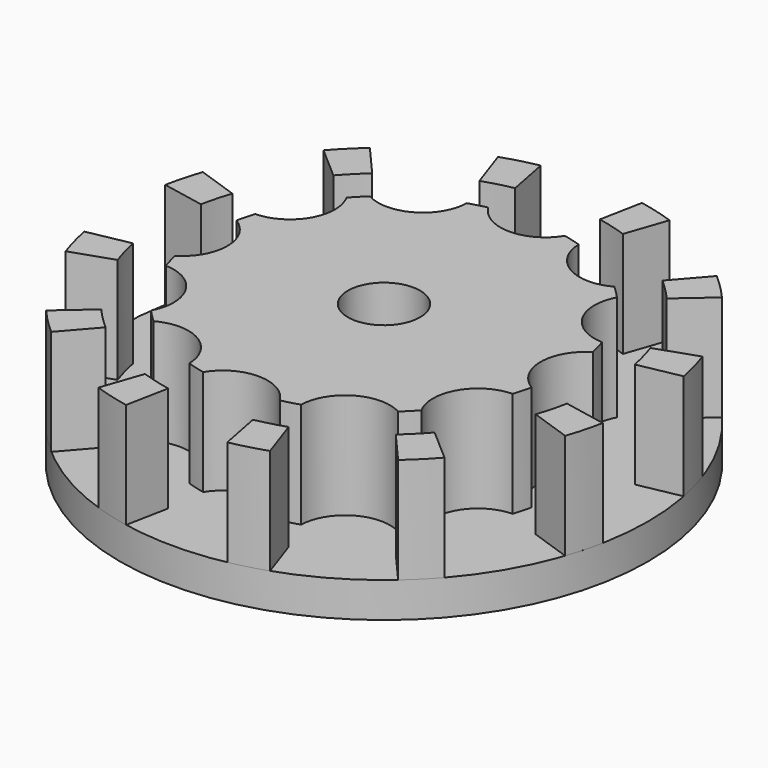
from build123d import *

# Parameters (mm, degrees)
F1_DEPTH = 6
F2_R     = 15
F3_DEPTH = 2
F4_R     = 2.05
F5_DEPTH = 8.001


with BuildPart() as f1:
    # F0 (on Top) → F1 (new body)
    with BuildSketch(Plane.XY):
        with BuildLine():
            ThreePointArc((-7.675711, 6.943051), (-7.707626, 4.45), (-9.850714, 3.175836))
            ThreePointArc((-9.850714, 3.175836), (-9.997332, 2.678777), (-10.118886, 2.175003))
            ThreePointArc((-10.118886, 2.175003), (-8.9, 0), (-10.118886, -2.175003))
            ThreePointArc((-10.118886, -2.175003), (-9.997332, -2.678777), (-9.850714, -3.175836))
            ThreePointArc((-9.850714, -3.175836), (-7.707626, -4.45), (-7.675711, -6.943051))
            ThreePointArc((-7.675711, -6.943051), (-7.318555, -7.318555), (-6.943051, -7.675711))
            ThreePointArc((-6.943051, -7.675711), (-4.45, -7.707626), (-3.175836, -9.850714))
            ThreePointArc((-3.175836, -9.850714), (-2.678777, -9.997332), (-2.175003, -10.118886))
            ThreePointArc((-2.175003, -10.118886), (0, -8.9), (2.175003, -10.118886))
            ThreePointArc((2.175003, -10.118886), (2.678777, -9.997332), (3.175836, -9.850714))
            ThreePointArc((3.175836, -9.850714), (4.45, -7.707626), (6.943051, -7.675711))
            ThreePointArc((6.943051, -7.675711), (7.318555, -7.318555), (7.675711, -6.943051))
            ThreePointArc((7.675711, -6.943051), (7.707626, -4.45), (9.850714, -3.175836))
            ThreePointArc((9.850714, -3.175836), (9.997332, -2.678777), (10.118886, -2.175003))
            ThreePointArc((10.118886, -2.175003), (8.9, 0), (10.118886, 2.175003))
            ThreePointArc((10.118886, 2.175003), (9.997332, 2.678777), (9.850714, 3.175836))
            ThreePointArc((9.850714, 3.175836), (7.707626, 4.45), (7.675711, 6.943051))
            ThreePointArc((7.675711, 6.943051), (7.318555, 7.318555), (6.943051, 7.675711))
            ThreePointArc((6.943051, 7.675711), (4.45, 7.707626), (3.175836, 9.850714))
            ThreePointArc((3.175836, 9.850714), (2.678777, 9.997332), (2.175003, 10.118886))
            ThreePointArc((2.175003, 10.118886), (0, 8.9), (-2.175003, 10.118886))
            ThreePointArc((-2.175003, 10.118886), (-2.678777, 9.997332), (-3.175836, 9.850714))
            ThreePointArc((-3.175836, 9.850714), (-4.45, 7.707626), (-6.943051, 7.675711))
            ThreePointArc((-6.943051, 7.675711), (-7.318555, 7.318555), (-7.675711, 6.943051))
        make_face()
        with BuildLine():
            ThreePointArc((-14.721821, -2.87541), (-14.488354, -3.884274), (-14.185839, -4.874626))
            Line((-14.185839, -4.874626), (-11.868818, -4.078437))
            ThreePointArc((-11.868818, -4.078437), (-12.121923, -3.249843), (-12.317257, -2.40576))
            Line((-12.317257, -2.40576), (-14.721821, -2.87541))
        make_face()
        with BuildLine():
            Line((-11.869937, 4.075179), (-14.187176, 4.870732))
            ThreePointArc((-14.187176, 4.870732), (-14.48942, 3.880297), (-14.72261, 2.871369))
            Line((-14.72261, 2.871369), (-12.317917, 2.402379))
            ThreePointArc((-12.317917, 2.402379), (-12.122815, 3.246515), (-11.869937, 4.075179))
        make_face()
        with BuildLine():
            Line((-8.242078, 9.464177), (-9.851089, 11.311766))
            ThreePointArc((-9.851089, 11.311766), (-10.608057, 10.605146), (-11.31447, 9.847984))
            Line((-11.31447, 9.847984), (-9.466439, 8.23948))
            ThreePointArc((-9.466439, 8.23948), (-8.875408, 8.872972), (-8.242078, 9.464177))
        make_face()
        with BuildLine():
            Line((-2.40576, 12.317257), (-2.87541, 14.721821))
            ThreePointArc((-2.87541, 14.721821), (-3.884274, 14.488354), (-4.874626, 14.185839))
            Line((-4.874626, 14.185839), (-4.078437, 11.868818))
            ThreePointArc((-4.078437, 11.868818), (-3.249843, 12.121923), (-2.40576, 12.317257))
        make_face()
        with BuildLine():
            Line((4.075179, 11.869937), (4.870732, 14.187176))
            ThreePointArc((4.870732, 14.187176), (3.880297, 14.48942), (2.871369, 14.72261))
            Line((2.871369, 14.72261), (2.402379, 12.317917))
            ThreePointArc((2.402379, 12.317917), (3.246515, 12.122815), (4.075179, 11.869937))
        make_face()
        with BuildLine():
            Line((9.464177, 8.242078), (11.311766, 9.851089))
            ThreePointArc((11.311766, 9.851089), (10.605146, 10.608057), (9.847984, 11.31447))
            Line((9.847984, 11.31447), (8.23948, 9.466439))
            ThreePointArc((8.23948, 9.466439), (8.872972, 8.875408), (9.464177, 8.242078))
        make_face()
        with BuildLine():
            Line((12.317257, 2.40576), (14.721821, 2.87541))
            ThreePointArc((14.721821, 2.87541), (14.488354, 3.884274), (14.185839, 4.874626))
            Line((14.185839, 4.874626), (11.868818, 4.078437))
            ThreePointArc((11.868818, 4.078437), (12.121923, 3.249843), (12.317257, 2.40576))
        make_face()
        with BuildLine():
            ThreePointArc((14.187176, -4.870732), (14.48942, -3.880297), (14.72261, -2.871369))
            Line((14.72261, -2.871369), (12.317917, -2.402379))
            ThreePointArc((12.317917, -2.402379), (12.122815, -3.246515), (11.869937, -4.075179))
            Line((11.869937, -4.075179), (14.187176, -4.870732))
        make_face()
        with BuildLine():
            ThreePointArc((9.851089, -11.311766), (10.608057, -10.605146), (11.31447, -9.847984))
            Line((11.31447, -9.847984), (9.466439, -8.23948))
            ThreePointArc((9.466439, -8.23948), (8.875408, -8.872972), (8.242078, -9.464177))
            Line((8.242078, -9.464177), (9.851089, -11.311766))
        make_face()
        with BuildLine():
            ThreePointArc((2.87541, -14.721821), (3.884274, -14.488354), (4.874626, -14.185839))
            Line((4.874626, -14.185839), (4.078437, -11.868818))
            ThreePointArc((4.078437, -11.868818), (3.249843, -12.121923), (2.40576, -12.317257))
            Line((2.40576, -12.317257), (2.87541, -14.721821))
        make_face()
        with BuildLine():
            ThreePointArc((-4.870732, -14.187176), (-3.880297, -14.48942), (-2.871369, -14.72261))
            Line((-2.871369, -14.72261), (-2.402379, -12.317917))
            ThreePointArc((-2.402379, -12.317917), (-3.246515, -12.122815), (-4.075179, -11.869937))
            Line((-4.075179, -11.869937), (-4.870732, -14.187176))
        make_face()
        with BuildLine():
            ThreePointArc((-11.311766, -9.851089), (-10.605146, -10.608057), (-9.847984, -11.31447))
            Line((-9.847984, -11.31447), (-8.23948, -9.466439))
            ThreePointArc((-8.23948, -9.466439), (-8.872972, -8.875408), (-9.464177, -8.242078))
            Line((-9.464177, -8.242078), (-11.311766, -9.851089))
        make_face()
    extrude(amount=F1_DEPTH)


with BuildPart() as f3:
    # F2 (on face) → F3 (new body)
    with BuildSketch(Plane(origin=(0, 0, 0), x_dir=(1, 0, 0), z_dir=(0, 0, -1))):
        Circle(F2_R)
    extrude(amount=F3_DEPTH)


with BuildPart() as f5_tool:
    # F4 (on face) → F5 (new body, through all)
    with BuildSketch(Plane(origin=(0, 0, -2), x_dir=(1, 0, 0), z_dir=(0, 0, -1))):
        Circle(F4_R)
    extrude(amount=-F5_DEPTH)


with BuildPart() as f1_1:
    add(f1.part)

    # F5: cut by f5_tool
    add(f5_tool.part, mode=Mode.SUBTRACT)


with BuildPart() as f3_1:
    add(f3.part)

    # F5: cut by f5_tool
    add(f5_tool.part, mode=Mode.SUBTRACT)


solid = Compound([f1_1.part, f3_1.part])
